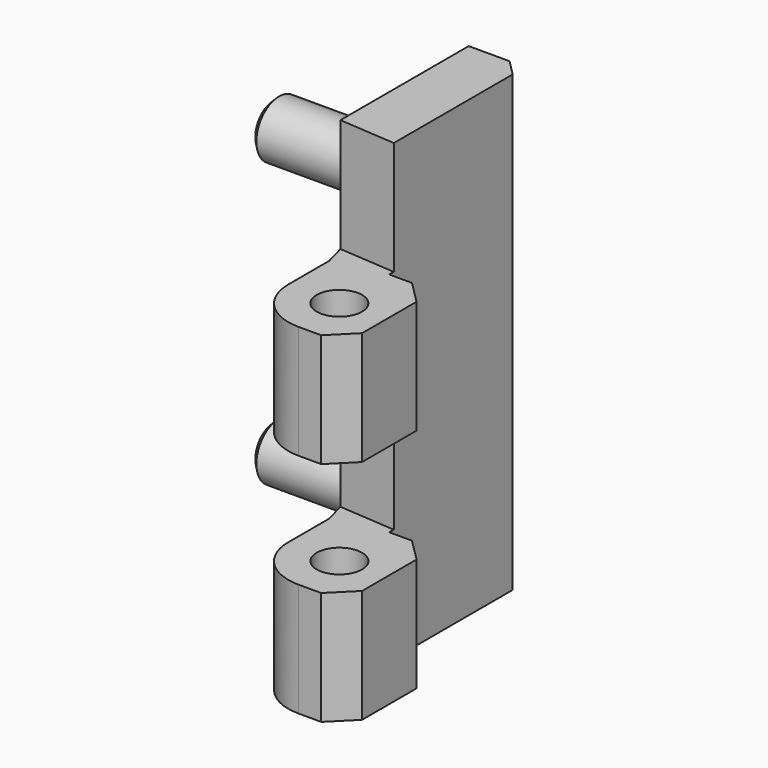
from build123d import *

# Parameters (mm, degrees)
PAD_DEPTH       = 40
SKETCH001_R     = 2.5
PAD001_DEPTH    = 12
CHAMFER_SIZE    = 0.49
SKETCH002_R     = 2
PAD002_DEPTH    = 40
SKETCH003_W     = 15
SKETCH003_H     = 10
POCKET_DEPTH    = 21.001633
POCKET001_DEPTH = 10
POCKET002_DEPTH = 10


with BuildPart() as part:
    # Sketch → Pad (new body)
    with BuildSketch(Plane.XY):
        Polygon((0, 14), (0, 0), (5.000071, -0.499955), (5.000071, 12.599929), (3.6, 14), align=None)
    extrude(amount=PAD_DEPTH)

    # Sketch001 → Pad001 (new body)
    with BuildSketch(Plane(origin=(0, 0, 0), x_dir=(0, -1, 0), z_dir=(-1, 0, 0))):
        with Locations((-7.5, 32.5)):
            Circle(SKETCH001_R)
        with Locations((-7.5, 7.5)):
            Circle(SKETCH001_R)
    extrude(amount=PAD001_DEPTH)

    # Chamfer
    chamfer_edges = [part.edges().sort_by_distance(p)[0] for p in [
        (-12, 10, 7.5),
        (-12, 10, 32.5),
    ]]
    chamfer(chamfer_edges, length=CHAMFER_SIZE)

    # Sketch002 → Pad002 (new body)
    with BuildSketch(Plane.XY.offset(40)):
        with BuildLine():
            Line((5.000071, -0.499955), (0, 0))
            Line((0, 0), (0, -0.13))
            Line((0, -0.13), (0.499521, -1.994237))
            Line((0.499521, -1.994237), (0.499521, -6.494237))
            ThreePointArc((0.499521, -6.494237), (1.817531, -9.676234), (4.999521, -10.994263))
            Line((4.999521, -10.994263), (6.999521, -10.994263))
            Line((6.999521, -10.994263), (9.000633, -8.993151))
            Line((9.000633, -8.993151), (9.000633, -2.993151))
            Line((9.000633, -2.993151), (7.000071, -0.999955))
            Line((5.000071, -0.999955), (7.000071, -0.999955))
            Line((5.000071, -0.499955), (5.000071, -0.999955))
        make_face()
        with Locations((4.999521, -6.494263)):
            Circle(SKETCH002_R, mode=Mode.SUBTRACT)
    extrude(amount=-PAD002_DEPTH)

    # Sketch003 → Pocket (cut, through all)
    with BuildSketch(Plane.YZ.offset(9.000633)):
        with Locations((-7.999955, 35)):
            Rectangle(SKETCH003_W, SKETCH003_H)
        with Locations((-7.999955, 15)):
            Rectangle(SKETCH003_W, SKETCH003_H)
    extrude(amount=-POCKET_DEPTH, mode=Mode.SUBTRACT)

    # Sketch005 → Pocket001 (cut)
    with BuildSketch(Plane.XY.offset(30)):
        Polygon((0, -0.13), (5.000071, -0.499955), (5.000071, -0.999955), (0, -0.999955), align=None)
    extrude(amount=POCKET001_DEPTH, mode=Mode.SUBTRACT)

    # Sketch006 → Pocket002 (cut)
    with BuildSketch(Plane(origin=(0, 0, 20), x_dir=(1, 0, 0), z_dir=(0, 0, -1))):
        Polygon((5.000071, 0.499955), (0, 0.499955), (0, 0.13), align=None)
    extrude(amount=POCKET002_DEPTH, mode=Mode.SUBTRACT)


solid = part.part
